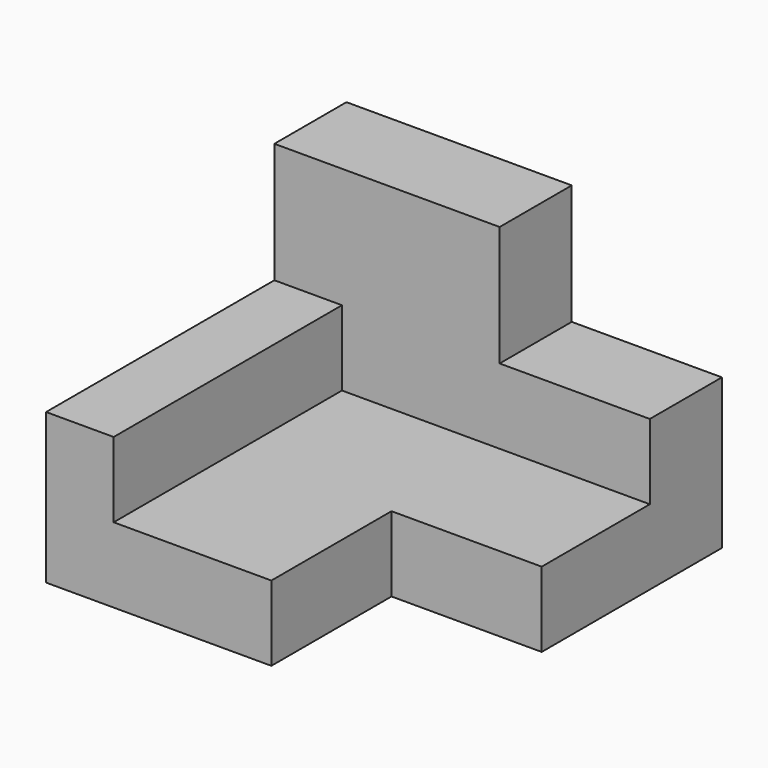
from build123d import *

# Parameters (mm, degrees)
F0_W     = 9
F0_H     = 38
F0_W_2   = 20
F0_H_2   = 12
F1_DEPTH = 10
F2_DEPTH = 20
F3_DEPTH = 36


with BuildPart() as f1:
    # F0 (on Top) → F1 (new body)
    with BuildSketch(Plane.XY):
        with Locations((4.5, 19)):
            Rectangle(F0_W, F0_H)
        with Locations((40, 44)):
            Rectangle(F0_W_2, F0_H_2)
        Polygon((0, 50), (0, 38), (9, 38), (30, 38), (30, 50), align=None)
        Polygon((9, 38), (9, 0), (30, 0), (30, 20), (50, 20), (50, 38), (30, 38), align=None)
    extrude(amount=F1_DEPTH)

    # F0 (on Top) → F2 (join)
    with BuildSketch(Plane.XY):
        with Locations((4.5, 19)):
            Rectangle(F0_W, F0_H)
        Polygon((0, 50), (0, 38), (9, 38), (30, 38), (30, 50), align=None)
        with Locations((40, 44)):
            Rectangle(F0_W_2, F0_H_2)
    extrude(amount=F2_DEPTH)

    # F0 (on Top) → F3 (join)
    with BuildSketch(Plane.XY):
        Polygon((0, 50), (0, 38), (9, 38), (30, 38), (30, 50), align=None)
    extrude(amount=F3_DEPTH)


solid = f1.part
